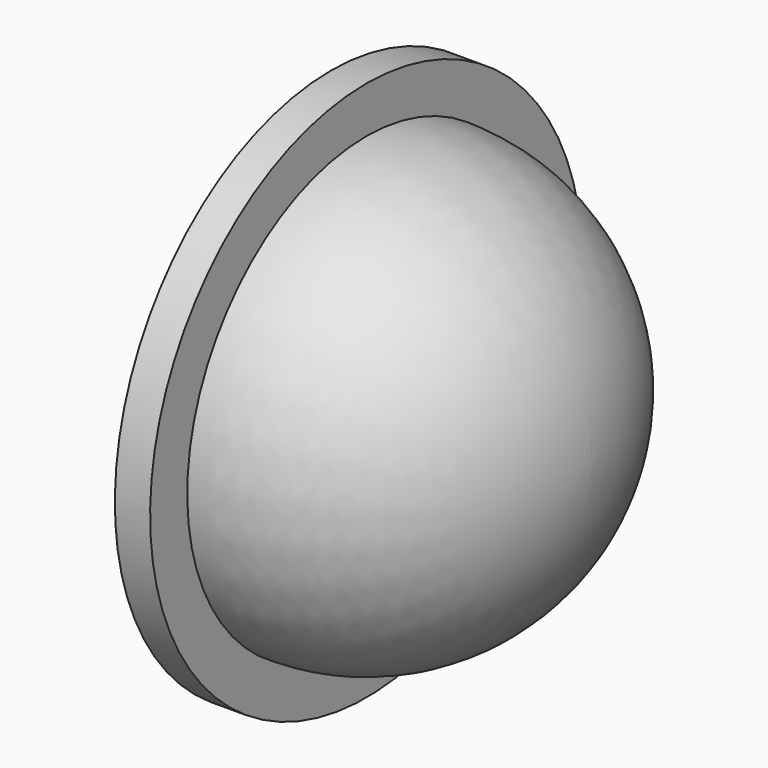
from build123d import *


with BuildPart() as f1:
    # F0 (on Front) → F1 (revolve)
    with BuildSketch(Plane.XZ):
        with BuildLine():
            Line((16, 0), (19.05, 0))
            ThreePointArc((19.05, 0), (13.470384, 13.470384), (0, 19.05))
            Line((0, 19.05), (0, 23))
            Line((0, 23), (-3, 23))
            Line((-3, 23), (-3, 16))
            Line((-3, 16), (0, 16))
            ThreePointArc((0, 16), (11.313708, 11.313708), (16, 0))
        make_face()
    revolve(axis=Axis((17.525, 0, 0), (1, 0, 0)))


solid = f1.part
